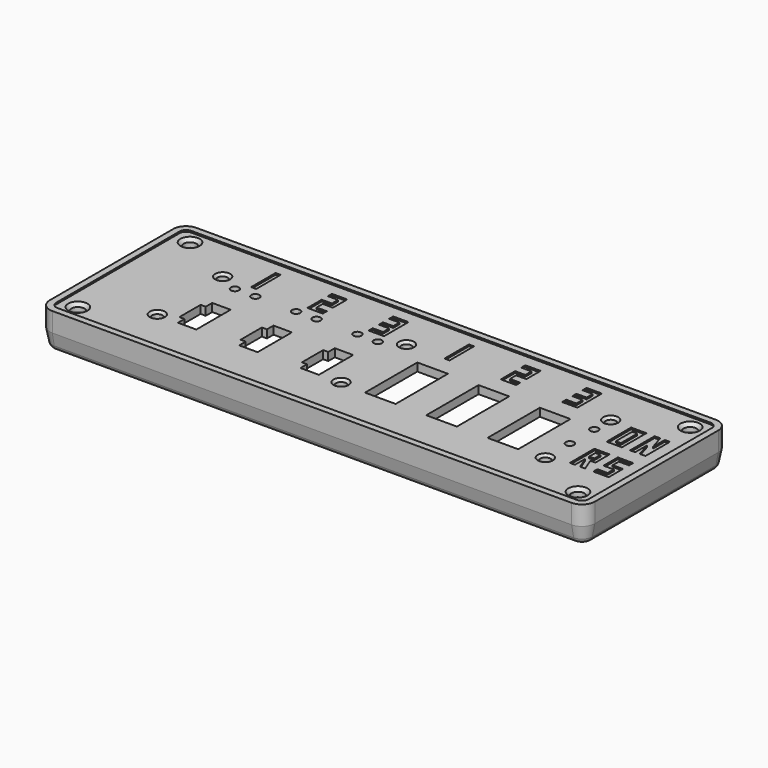
from build123d import *

# Parameters (mm, degrees)
SKETCH_R        = 2
PAD_DEPTH       = 2.5
PAD001_DEPTH    = 0.5
CHAMFER_SIZE    = 1
PAD002_DEPTH    = 8
CHAMFER001_SIZE = 1.5
CHAMFER002_SIZE = 1.5
CHAMFER003_SIZE = 2
SKETCH004_R     = 1.5875
SKETCH004_R_2   = 1.27
SKETCH004_W     = 9.525
SKETCH004_H     = 20.32
POCKET_DEPTH    = 10.501
CHAMFER004_SIZE = 0.762
SKETCH005_W     = 1.5875
SKETCH005_H     = 9.525
SKETCH005_W_2   = 4.7625
SKETCH005_H_2   = 6.35
SKETCH005_H_3   = 2.38125
POCKET001_DEPTH = 0.508


with BuildPart() as part:
    # Sketch → Pad (new body)
    with BuildSketch(Plane.XY):
        with BuildLine():
            Line((-84.75, 0), (-84.75, 24))
            ThreePointArc((-80.75, 28), (-83.578427, 26.828427), (-84.75, 24))
            Line((-80.75, 28), (0, 28))
            Line((0, 28), (80.75, 28))
            ThreePointArc((84.75, 24), (83.578427, 26.828427), (80.75, 28))
            Line((84.75, 24), (84.75, -24))
            ThreePointArc((80.75, -28), (83.578427, -26.828427), (84.75, -24))
            Line((80.75, -28), (-80.75, -28))
            ThreePointArc((-84.75, -24), (-83.578427, -26.828427), (-80.75, -28))
            Line((-84.75, -24), (-84.75, 0))
        make_face()
        with Locations((-77.75, 21.8)):
            Circle(SKETCH_R, mode=Mode.SUBTRACT)
        with Locations((77.75, 21.8)):
            Circle(SKETCH_R, mode=Mode.SUBTRACT)
        with Locations((-77.75, -21.8)):
            Circle(SKETCH_R, mode=Mode.SUBTRACT)
        with Locations((77.75, -21.8)):
            Circle(SKETCH_R, mode=Mode.SUBTRACT)
    extrude(amount=PAD_DEPTH)

    # Sketch001 (on Face16 of Pad) → Pad001 (join)
    with BuildSketch(Plane.XY.offset(2.5)):
        with BuildLine():
            Line((-80.75, 28), (80.75, 28))
            ThreePointArc((84.75, 24), (83.578427, 26.828427), (80.75, 28))
            Line((84.75, 24), (84.75, -24))
            ThreePointArc((80.75, -28), (83.578427, -26.828427), (84.75, -24))
            Line((80.75, -28), (-80.75, -28))
            ThreePointArc((-84.75, -24), (-83.578427, -26.828427), (-80.75, -28))
            Line((-84.75, -24), (-84.75, 24))
            ThreePointArc((-80.75, 28), (-83.578427, 26.828427), (-84.75, 24))
        make_face()
        with BuildLine():
            Line((-80.75, 26), (80.75, 26))
            ThreePointArc((82.75, 24), (82.164214, 25.414214), (80.75, 26))
            Line((82.75, 24), (82.75, -24))
            ThreePointArc((80.75, -26), (82.164214, -25.414214), (82.75, -24))
            Line((80.75, -26), (-80.75, -26))
            ThreePointArc((-82.75, -24), (-82.164214, -25.414214), (-80.75, -26))
            Line((-82.75, -24), (-82.75, 24))
            ThreePointArc((-80.75, 26), (-82.164214, 25.414214), (-82.75, 24))
        make_face(mode=Mode.SUBTRACT)
    extrude(amount=PAD001_DEPTH)

    # Chamfer
    chamfer_edges = [part.edges().sort_by_distance(p)[0] for p in [
        (-79.75, -21.8, 2.5),
        (-79.75, 21.8, 2.5),
        (75.75, 21.8, 2.5),
        (75.75, -21.8, 2.5),
    ]]
    chamfer(chamfer_edges, length=CHAMFER_SIZE)

    # Sketch002 (on Face3 of Chamfer) → Pad002 (join)
    with BuildSketch(Plane(origin=(0, 0, 0), x_dir=(1, 0, 0), z_dir=(0, 0, -1))):
        with BuildLine():
            Line((-80.75, 28), (80.75, 28))
            ThreePointArc((84.75, 24), (83.578427, 26.828427), (80.75, 28))
            Line((84.75, 24), (84.75, -24))
            ThreePointArc((80.75, -28), (83.578427, -26.828427), (84.75, -24))
            Line((80.75, -28), (-80.75, -28))
            ThreePointArc((-84.75, -24), (-83.578427, -26.828427), (-80.75, -28))
            Line((-84.75, -24), (-84.75, 24))
            ThreePointArc((-80.75, 28), (-83.578427, 26.828427), (-84.75, 24))
        make_face()
        with BuildLine():
            Line((-80.75, 26), (80.75, 26))
            ThreePointArc((82.75, 24), (82.164214, 25.414214), (80.75, 26))
            Line((82.75, 24), (82.75, -24))
            ThreePointArc((80.75, -26), (82.164214, -25.414214), (82.75, -24))
            Line((80.75, -26), (-80.75, -26))
            ThreePointArc((-82.75, -24), (-82.164214, -25.414214), (-80.75, -26))
            Line((-82.75, -24), (-82.75, 24))
            ThreePointArc((-80.75, 26), (-82.164214, 25.414214), (-82.75, 24))
        make_face(mode=Mode.SUBTRACT)
    extrude(amount=PAD002_DEPTH)

    # Chamfer001
    chamfer001_edges = [part.edges().sort_by_distance(p)[0] for p in [
        (0, 28, -8),
    ]]
    chamfer(chamfer001_edges, length=CHAMFER001_SIZE)

    # Chamfer002
    chamfer002_edges = [part.edges().sort_by_distance(p)[0] for p in [
        (0, 28, -6.5),
    ]]
    chamfer(chamfer002_edges, length=CHAMFER002_SIZE)

    # Chamfer003
    chamfer003_edges = [part.edges().sort_by_distance(p)[0] for p in [
        (0, 28, -5),
    ]]
    chamfer(chamfer003_edges, length=CHAMFER003_SIZE)

    # Sketch004 (on Face78 of Clone) → Pocket (cut, through all)
    with BuildSketch(Plane.XY.offset(2.5)):
        with Locations((-60.325, 12.7)):
            Circle(SKETCH004_R)
        with Locations((-60.325, -12.7)):
            Circle(SKETCH004_R)
        with Locations((-3.175, 12.7)):
            Circle(SKETCH004_R)
        with Locations((-3.175, -12.7)):
            Circle(SKETCH004_R)
        with Locations((60.325, 12.7)):
            Circle(SKETCH004_R)
        with Locations((60.325, -12.7)):
            Circle(SKETCH004_R)
        with Locations((-53.975, 9.525)):
            Circle(SKETCH004_R_2)
        with Locations((-47.625, 9.525)):
            Circle(SKETCH004_R_2)
        with Locations((-34.925, 9.525)):
            Circle(SKETCH004_R_2)
        with Locations((-28.575, 9.525)):
            Circle(SKETCH004_R_2)
        with Locations((-15.875, 9.525)):
            Circle(SKETCH004_R_2)
        with Locations((-9.525, 9.525)):
            Circle(SKETCH004_R_2)
        with Locations((60.325, 6.35)):
            Circle(SKETCH004_R_2)
        with Locations((60.325, -3.175)):
            Circle(SKETCH004_R_2)
        Polygon((52.3875, 6.985), (52.3875, -3.175), (52.3875, -13.335), (47.625, -13.335), (42.8625, -13.335), (42.8625, 6.985), align=None)
        with Locations((28.575, -3.175)):
            Rectangle(SKETCH004_W, SKETCH004_H)
        with Locations((9.525, -3.175)):
            Rectangle(SKETCH004_W, SKETCH004_H)
        Polygon((-15.5575, 0.3175), (-12.7, 0.3175), (-9.8425, 0.3175), (-9.8425, -6.35), (-9.8425, -13.0175), (-15.5575, -13.0175), (-15.5575, -10.4775), (-17.145, -10.4775), (-17.145, -2.2225), (-15.5575, -2.2225), align=None)
        Polygon((-28.8925, 0.3175), (-34.6075, 0.3175), (-34.6075, -2.2225), (-36.195, -2.2225), (-36.195, -10.4775), (-34.6075, -10.4775), (-34.6075, -13.0175), (-28.8925, -13.0175), align=None)
        Polygon((-47.9425, 0.3175), (-53.6575, 0.3175), (-53.6575, -2.2225), (-55.245, -2.2225), (-55.245, -10.4775), (-53.6575, -10.4775), (-53.6575, -13.0175), (-47.9425, -13.0175), align=None)
    extrude(amount=-POCKET_DEPTH, mode=Mode.SUBTRACT)

    # Chamfer004
    chamfer004_edges = [part.edges().sort_by_distance(p)[0] for p in [
        (-61.9125, 12.7, 2.5),
        (-61.9125, -12.7, 2.5),
        (-4.7625, 12.7, 2.5),
        (-4.7625, -12.7, 2.5),
        (58.7375, 12.7, 2.5),
        (58.7375, -12.7, 2.5),
    ]]
    chamfer(chamfer004_edges, length=CHAMFER004_SIZE)

    # Sketch005 (on Face4 of Chamfer004) → Pocket001 (cut)
    with BuildSketch(Plane.XY.offset(2.5)):
        with Locations((-50.70475, 17.4625)):
            Rectangle(SKETCH005_W, SKETCH005_H)
        Polygon((-33.9725, 22.225), (-29.21, 22.225), (-29.21, 16.66875), (-32.385, 16.66875), (-32.385, 14.2875), (-29.21, 14.2875), (-29.21, 12.7), (-33.9725, 12.7), (-33.9725, 18.25625), (-30.7975, 18.25625), (-30.7975, 20.6375), (-33.9725, 20.6375), align=None)
        Polygon((-14.9225, 22.225), (-10.16, 22.225), (-10.16, 12.7), (-14.9225, 12.7), (-14.9225, 14.2875), (-11.7475, 14.2875), (-11.7475, 16.66875), (-14.9225, 16.66875), (-14.9225, 18.25625), (-11.7475, 18.25625), (-11.7475, 20.6375), (-14.9225, 20.6375), align=None)
        with Locations((9.42975, 17.4625)):
            Rectangle(SKETCH005_W, SKETCH005_H)
        Polygon((26.162, 22.225), (30.9245, 22.225), (30.9245, 16.66875), (27.7495, 16.66875), (27.7495, 14.2875), (30.9245, 14.2875), (30.9245, 12.7), (26.162, 12.7), (26.162, 18.25625), (29.337, 18.25625), (29.337, 20.6375), (26.162, 20.6375), align=None)
        Polygon((45.212, 22.225), (49.9745, 22.225), (49.9745, 12.7), (45.212, 12.7), (45.212, 14.2875), (48.387, 14.2875), (48.387, 16.66875), (45.212, 16.66875), (45.212, 18.25625), (48.387, 18.25625), (48.387, 20.6375), (45.212, 20.6375), align=None)
        with Locations((69.05625, 7.9375)):
            Rectangle(SKETCH005_W_2, SKETCH005_H)
        with Locations((69.05625, 7.9375)):
            Rectangle(SKETCH005_W, SKETCH005_H_2, mode=Mode.SUBTRACT)
        Polygon((73.9775, 3.175), (73.9775, 12.7), (75.7555, 12.7), (77.1525, 8.05426), (77.1525, 12.7), (78.74, 12.7), (78.74, 3.175), (76.962, 3.175), (75.565, 7.82074), (75.565, 3.175), align=None)
        Polygon((66.675, -11.1125), (66.675, -1.5875), (71.4375, -1.5875), (71.4375, -7.14375), (69.85, -7.14375), (71.4375, -11.1125), (69.85, -11.1125), (68.2625, -7.14375), (68.2625, -11.1125), align=None)
        with Locations((69.05625, -4.365625)):
            Rectangle(SKETCH005_W, SKETCH005_H_3, mode=Mode.SUBTRACT)
        Polygon((78.74, -1.5875), (73.9775, -1.5875), (73.9775, -7.14375), (77.1525, -7.14375), (77.1525, -9.525), (73.9775, -9.525), (73.9775, -11.1125), (78.74, -11.1125), (78.74, -5.55625), (75.565, -5.55625), (75.565, -3.175), (78.74, -3.175), align=None)
    extrude(amount=-POCKET001_DEPTH, mode=Mode.SUBTRACT)


solid = part.part
